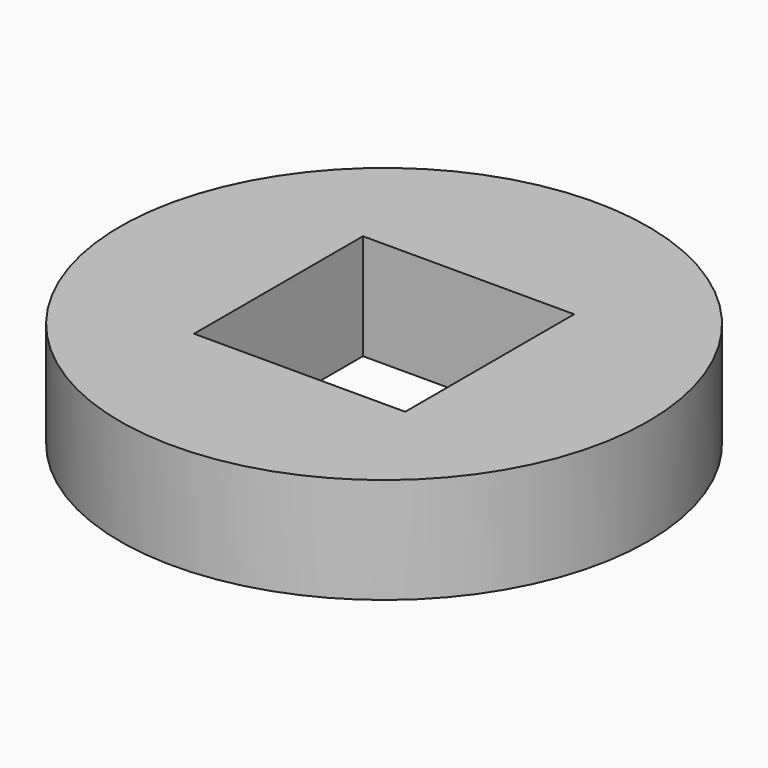
from build123d import *

# Parameters (mm, degrees)
F0_R     = 63.5
F1_DEPTH = 25.4
F2_W     = 50.8
F2_H     = 50.8
F3_DEPTH = 25.4


with BuildPart() as f1:
    # F0 (on Top) → F1 (new body)
    with BuildSketch(Plane.XY):
        Circle(F0_R)
    extrude(amount=F1_DEPTH)

    # F2 (on face) → F3 (cut, through all)
    with BuildSketch(Plane.XY.offset(25.4)):
        Rectangle(F2_W, F2_H)
    extrude(amount=-F3_DEPTH, mode=Mode.SUBTRACT)


solid = f1.part
